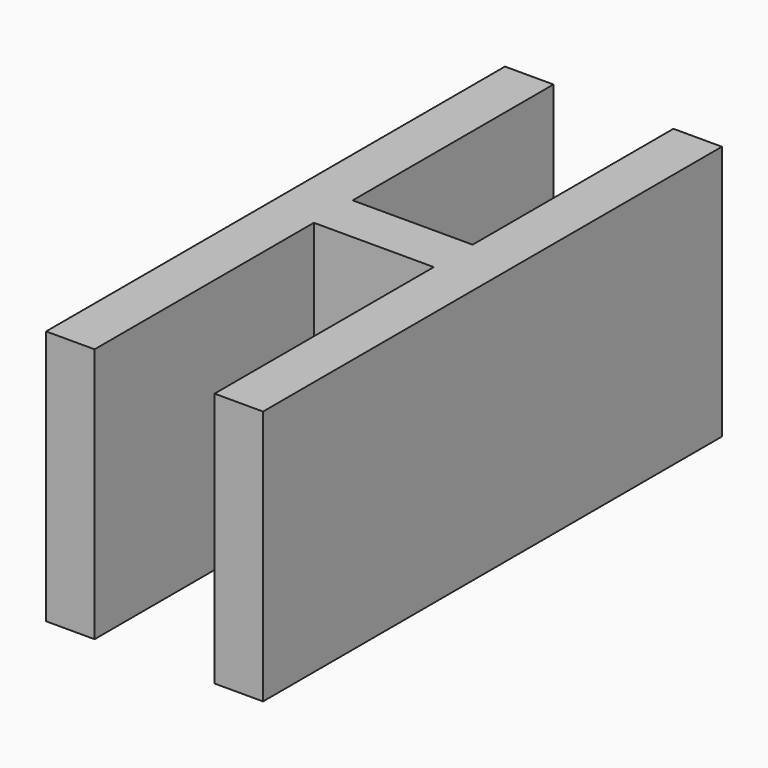
from build123d import *

# Parameters (mm, degrees)
F0_W     = 31.419306
F0_H     = 12.7
F1_DEPTH = 66.83598


with BuildPart() as f1:
    # F0 (on Top) → F1 (new body)
    with BuildSketch(Plane.XY):
        Polygon((-99.093348, 73.004946), (-111.793348, 73.004946), (-111.793348, -77.210762), (-99.093348, -77.210762), (-99.093348, -5.429364), (-99.093348, 7.270636), align=None)
        with Locations((-83.383695, 0.920636)):
            Rectangle(F0_W, F0_H)
        Polygon((-67.674042, 73.004946), (-67.674042, 7.270636), (-67.674042, -5.429364), (-67.674042, -77.210762), (-54.974042, -77.210762), (-54.974042, 73.004946), align=None)
    extrude(amount=F1_DEPTH)


solid = f1.part
